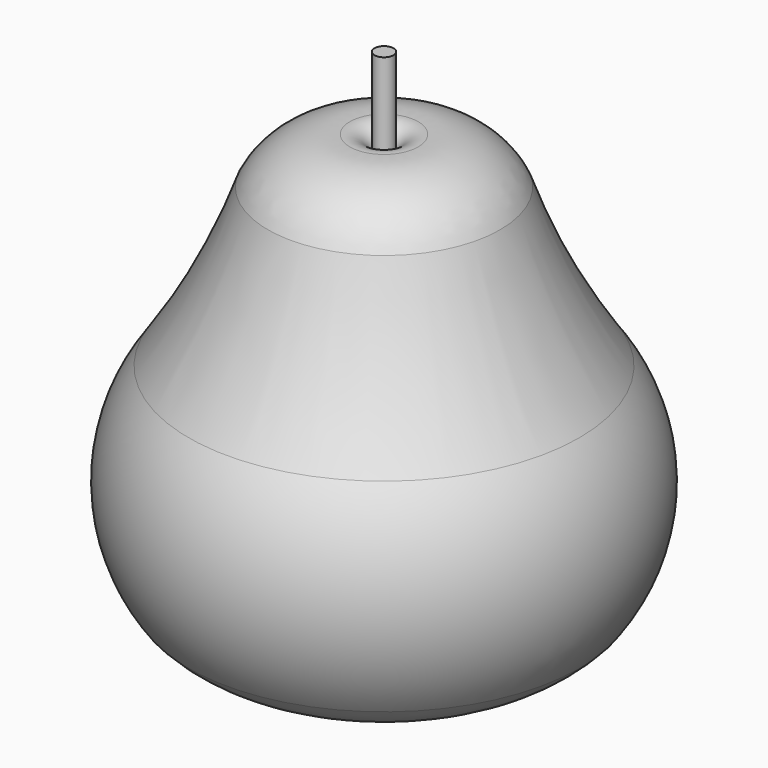
from build123d import *


with BuildPart() as f1:
    # F0 (on Front) → F1 (revolve)
    with BuildSketch(Plane.XZ):
        with BuildLine():
            Line((4, 105.747129), (0, 105.747129))
            Line((0, 105.747129), (0, -94.252871))
            ThreePointArc((0, -94.252871), (40.692461, -113.498906), (82.039237, -95.701985))
            ThreePointArc((82.039237, -95.701985), (96.118329, -53.052258), (82.039237, -10.402531))
            ThreePointArc((82.039237, -10.402531), (63.218442, 21.570895), (48.791077, 55.752374))
            ThreePointArc((48.791077, 55.752374), (34.57107, 70.786614), (14.355589, 75.210556))
            ThreePointArc((14.355589, 75.210556), (7.091972, 72.761305), (4, 65.747129))
            Line((4, 65.747129), (4, 105.747129))
        make_face()
    revolve(axis=Axis((0, 0, 5.747129), (0, 0, -1)))


solid = f1.part
